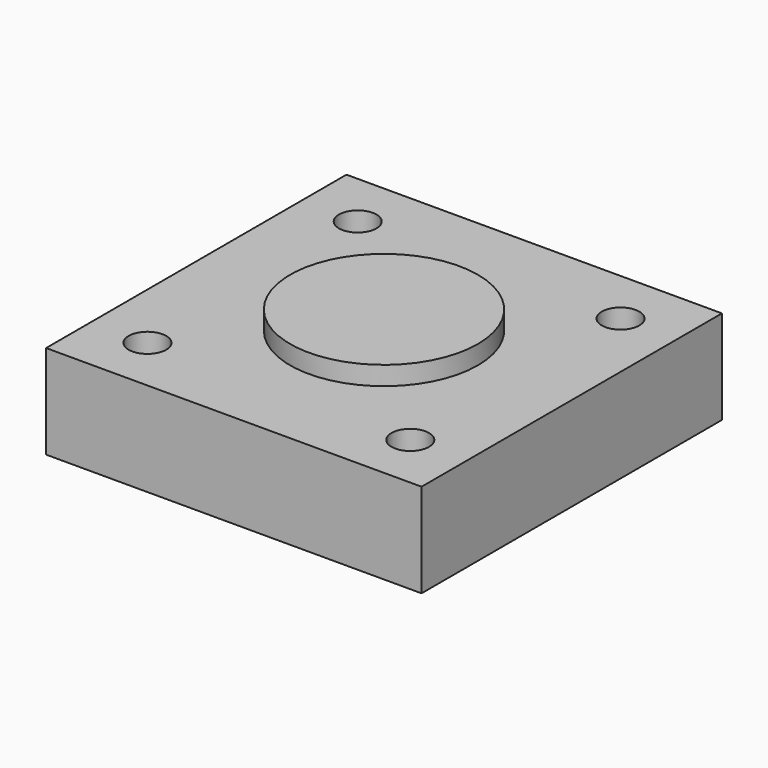
from build123d import *

# Parameters (mm, degrees)
F0_W     = 100
F0_H     = 100
F1_DEPTH = 25
F2_R     = 25
F3_DEPTH = 5
F4_R     = 5
F5_DEPTH = 15


with BuildPart() as f1:
    # F0 (on Top) → F1 (new body)
    with BuildSketch(Plane.XY):
        Rectangle(F0_W, F0_H)
    extrude(amount=F1_DEPTH)

    # F2 (on face) → F3 (join)
    with BuildSketch(Plane.XY.offset(25)):
        Circle(F2_R)
    extrude(amount=F3_DEPTH)

    # F4 (on face) → F5 (cut)
    with BuildSketch(Plane.XY.offset(25)):
        with Locations((-35, -35)):
            Circle(F4_R)
        with Locations((-35, 35)):
            Circle(F4_R)
        with Locations((35, 35)):
            Circle(F4_R)
        with Locations((35, -35)):
            Circle(F4_R)
    extrude(amount=-F5_DEPTH, mode=Mode.SUBTRACT)


solid = f1.part
